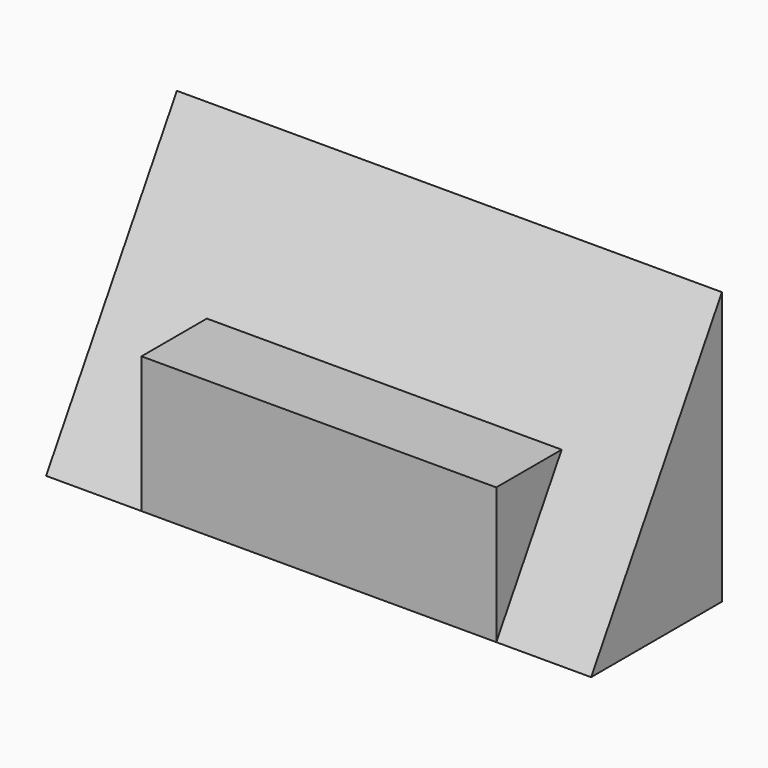
from build123d import *

# Parameters (mm, degrees)
F1_DEPTH = 127
F2_START = 22.225
F2_DEPTH = 82.677


with BuildPart() as f1:
    # F0 (on Right) → F1 (new body)
    with BuildSketch(Plane.YZ):
        Polygon((30.5216386862, -38.4214240238), (30.5216386862, 25.0785759762), (11.4716386862, -6.6714240238), (-7.5783613138, -38.4214240238), align=None)
    extrude(amount=F1_DEPTH)

    # F0 (on Right) → F2 (join)
    with BuildSketch(Plane.YZ.offset(F2_START)):
        Polygon((-7.5783613138, -38.4214240238), (11.4716386862, -6.6714240238), (-7.5783613138, -6.6714240238), align=None)
    extrude(amount=F2_DEPTH)


solid = f1.part
